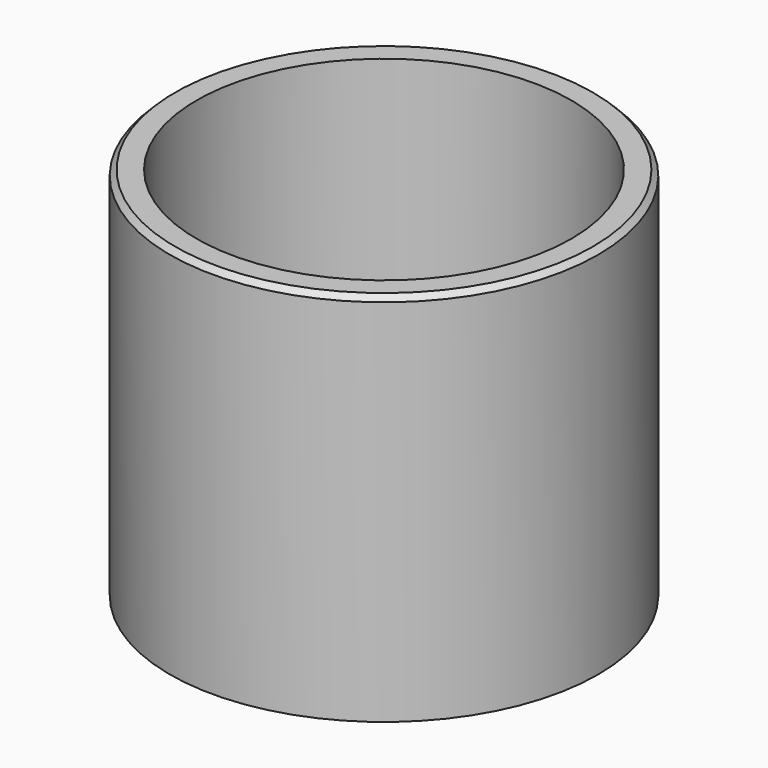
from build123d import *

# Parameters (mm, degrees)
SKETCH_R     = 8
SKETCH_R_2   = 7
PAD_DEPTH    = 14
CHAMFER_SIZE = 0.2


with BuildPart() as part:
    # Sketch → Pad (new body)
    with BuildSketch(Plane.XY):
        Circle(SKETCH_R)
        Circle(SKETCH_R_2, mode=Mode.SUBTRACT)
    extrude(amount=PAD_DEPTH)

    # Chamfer
    chamfer_edges = [part.edges().sort_by_distance(p)[0] for p in [
        (-8, 0, 14),
    ]]
    chamfer(chamfer_edges, length=CHAMFER_SIZE)


solid = part.part
